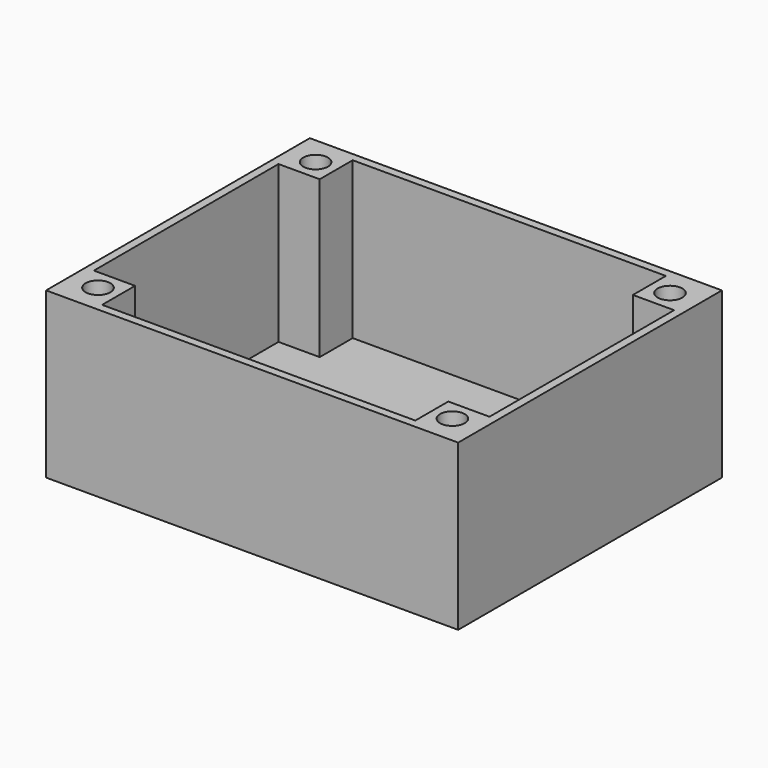
from build123d import *

# Parameters (mm, degrees)
F0_W     = 50
F0_H     = 40
F1_DEPTH = 20
F2_W     = 48
F2_H     = 38
F3_DEPTH = 19
F4_W     = 5
F4_H     = 5
F5_DEPTH = 19
F6_R     = 1.5
F7_DEPTH = 10


with BuildPart() as f1:
    # F0 (on Top) → F1 (new body)
    with BuildSketch(Plane.XY):
        with Locations((-36.687503, 37.0625)):
            Rectangle(F0_W, F0_H)
    extrude(amount=F1_DEPTH)

    # F2 (on face) → F3 (cut)
    with BuildSketch(Plane.XY.offset(20)):
        with Locations((-36.687503, 37.0625)):
            Rectangle(F2_W, F2_H)
    extrude(amount=-F3_DEPTH, mode=Mode.SUBTRACT)

    # F4 (on face) → F5 (join)
    with BuildSketch(Plane.XY.offset(1)):
        with Locations((-15.187503, 53.5625)):
            Rectangle(F4_W, F4_H)
        with Locations((-15.187503, 20.5625)):
            Rectangle(F4_W, F4_H)
        with Locations((-58.187503, 20.5625)):
            Rectangle(F4_W, F4_H)
        with Locations((-58.187503, 53.5625)):
            Rectangle(F4_W, F4_H)
    extrude(amount=F5_DEPTH)

    # F6 (on face) → F7 (cut)
    with BuildSketch(Plane.XY.offset(20)):
        with Locations((-15.187503, 53.5625)):
            Circle(F6_R)
        with Locations((-15.187503, 20.5625)):
            Circle(F6_R)
        with Locations((-58.187503, 20.5625)):
            Circle(F6_R)
        with Locations((-58.187503, 53.5625)):
            Circle(F6_R)
    extrude(amount=-F7_DEPTH, mode=Mode.SUBTRACT)


solid = f1.part
